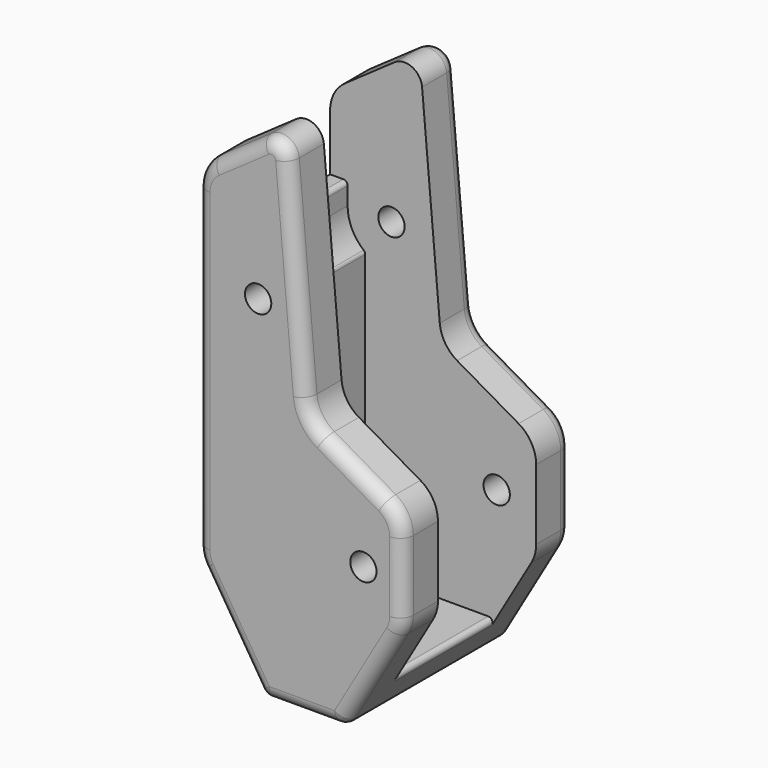
from build123d import *

# Parameters (mm, degrees)
SKETCH036_R     = 1.5
PAD021_DEPTH    = 24
FILLET007_R     = 1.5
POCKET013_DEPTH = 14
FILLET008_R     = 0.5


with BuildPart() as part:
    # Sketch036 → Pad021 (new body)
    with BuildSketch(Plane.XZ):
        with BuildLine():
            Line((-59.294306, 24.684125), (-53.647153, 28.638304))
            ThreePointArc((-50.507611, 27.174311), (-51.654763, 28.812616), (-53.647153, 28.638304))
            Line((-50.507611, 27.174311), (-48.491026, 4.124639))
            ThreePointArc((-48.491026, 4.124639), (-47.879813, 2.324063), (-46.506247, 1.00916))
            Line((-39.5, -3.035898), (-46.506247, 1.00916))
            ThreePointArc((-37.5, -6.5), (-38.035898, -4.5), (-39.5, -3.035898))
            Line((-37.5, -6.5), (-37.5, -14.5))
            ThreePointArc((-38.041032, -16.508866), (-37.637626, -15.540223), (-37.5, -14.5))
            Line((-38.041032, -16.508866), (-44.135258, -27.002216))
            ThreePointArc((-45, -27.5), (-44.501109, -27.366665), (-44.135258, -27.002216))
            Line((-45, -27.5), (-53, -27.5))
            ThreePointArc((-53.846615, -27.032205), (-53.483629, -27.375273), (-53, -27.5))
            Line((-53.846615, -27.032205), (-60.386462, -16.628821))
            ThreePointArc((-61, -14.5), (-60.843556, -15.607735), (-60.386462, -16.628821))
            Line((-61, -14.5), (-61, 21.407517))
            ThreePointArc((-59.294306, 24.684125), (-60.548043, 23.254511), (-61, 21.407517))
        make_face()
        with Locations((-54, 12.5)):
            Circle(SKETCH036_R, mode=Mode.SUBTRACT)
        with Locations((-42, -10.5)):
            Circle(SKETCH036_R, mode=Mode.SUBTRACT)
    extrude(amount=PAD021_DEPTH)

    # Fillet007
    fillet007_edges = [part.edges().sort_by_distance(p)[0] for p in [
        (-60.548043, 0, 23.254511),
        (-60.548043, -24, 23.254511),
    ]]
    fillet(fillet007_edges, radius=FILLET007_R)

    # Sketch037 (on Face12 of Fillet007) → Pocket013 (cut)
    with BuildSketch(Plane.XZ.offset(19)):
        with BuildLine():
            Line((-37.475618, -23.5), (-51.342359, -23.5))
            Line((-51.342359, -23.5), (-57, -14.5))
            Line((-57, -14.5), (-57, 8.5))
            ThreePointArc((-59, 12.5), (-58.472136, 10.263932), (-57, 8.5))
            Line((-59, 12.5), (-59, 15))
            Line((-59, 15), (-79, 15))
            Line((-79, 15), (-79, 35))
            Line((-79, 35), (-15.733307, 35))
            Line((-15.733307, 35), (-15.733307, -20.5))
            Line((-15.733307, -20.5), (-35.733307, -20.5))
            Line((-35.733307, -20.5), (-37.475618, -23.5))
        make_face()
    extrude(amount=-POCKET013_DEPTH, mode=Mode.SUBTRACT)

    # Fillet008
    fillet008_edges = [part.edges().sort_by_distance(p)[0] for p in [
        (-57, -12, 8.5),
        (-59, -12, 15),
        (-57, -12, -14.5),
        (-51.342359, -12, -23.5),
        (-42.101275, -12, -23.5),
    ]]
    fillet(fillet008_edges, radius=FILLET008_R)


with BuildPart() as part_1:
    # Body003 placement: moved
    add(part.part.moved(Location((0, 33, 0))))


with BuildPart() as part_2:
    # Clone170 placement: moved
    add(part_1.part.moved(Location((-47, -47, 7.5))))


solid = part_2.part
